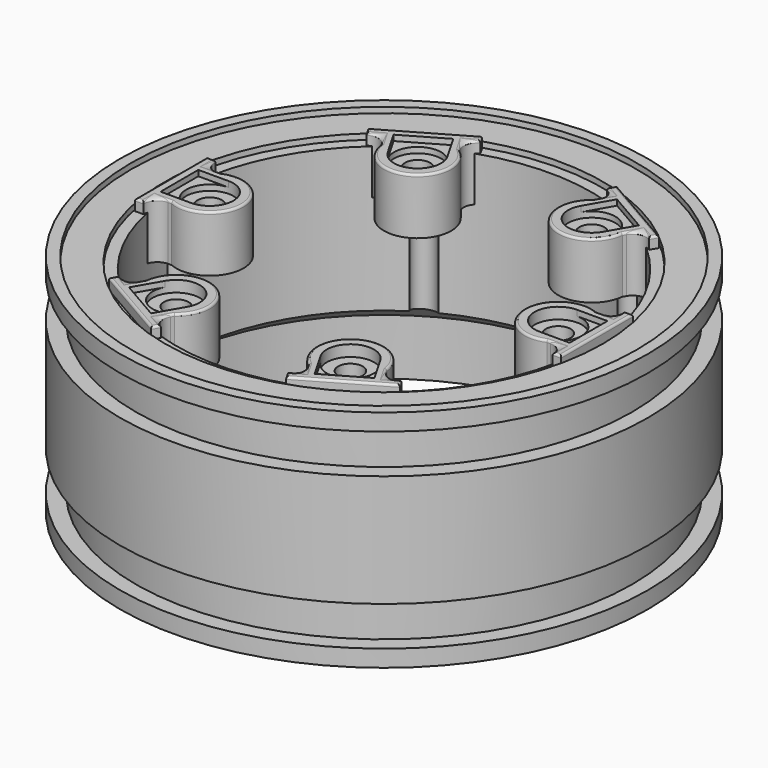
from build123d import *

# Parameters (mm, degrees)
CYLINDER073_R               = 1
CYLINDER073_DEPTH           = 10
CYLINDER073_PLACEMENT_ANGLE = 120
CYLINDER075_R               = 1
CYLINDER075_DEPTH           = 10
CYLINDER075_PLACEMENT_ANGLE = 240
CYLINDER072_R               = 1
CYLINDER072_DEPTH           = 10
CYLINDER072_PLACEMENT_ANGLE = 60
CYLINDER074_R               = 1
CYLINDER074_DEPTH           = 10
CYLINDER076_R               = 1
CYLINDER076_DEPTH           = 10
CYLINDER076_PLACEMENT_ANGLE = -60
CYLINDER071_R               = 1
CYLINDER071_DEPTH           = 10
CYLINDER070_R               = 20
CYLINDER070_DEPTH           = 5
CYLINDER007_R               = 19.5
CYLINDER007_DEPTH           = 1
CYLINDER018_R               = 22.5
CYLINDER018_DEPTH           = 0.5
CYLINDER006_R               = 18.5
CYLINDER006_DEPTH           = 20
CYLINDER002_R               = 22.1
CYLINDER002_DEPTH           = 17
CYLINDER001_R               = 23.5
CYLINDER001_DEPTH           = 17
CYLINDER_R                  = 23.5
CYLINDER_DEPTH              = 20
CYLINDER003_R               = 22
CYLINDER003_DEPTH           = 17
CYLINDER004_R               = 23.5
CYLINDER004_DEPTH           = 10
BOX011_W                    = 2.7
BOX011_H                    = 4.2
BOX011_DEPTH                = 0.5
CYLINDER069_R               = 2.1
CYLINDER069_DEPTH           = 1
CYLINDER068_R               = 1.1
CYLINDER068_DEPTH           = 5
BOX010_W                    = 0.75
BOX010_H                    = 8
BOX010_DEPTH                = 5
CYLINDER012_R               = 3
CYLINDER012_DEPTH           = 5
BOX_W                       = 2
BOX_H                       = 5.5
BOX_DEPTH                   = 5
FILLET049_R                 = 0.2
FILLET050_R                 = 1.2
FILLET050_PLACEMENT_ANGLE   = 120
FILLET057_R                 = 0.2
FILLET058_R                 = 1.2
FILLET051_R                 = 0.2
FILLET052_R                 = 1.2
FILLET052_PLACEMENT_ANGLE   = 180
FILLET055_R                 = 0.2
FILLET056_R                 = 1.2
FILLET056_PLACEMENT_ANGLE   = -60
FILLET053_R                 = 0.2
FILLET054_R                 = 1.2
FILLET054_PLACEMENT_ANGLE   = 240
FILLET047_R                 = 0.2
FILLET048_R                 = 1.2
FILLET048_PLACEMENT_ANGLE   = 60


with BuildPart() as cone:
    # Cone → Cone (revolve)
    with BuildSketch(Plane(origin=(0, 0, 5), x_dir=(1, 0, 0), z_dir=(0, -1, 0))):
        Polygon((0, 0), (20, 0), (12, 6), (0, 6), align=None)
    revolve(axis=Axis((0, 0, 5), (0, 0, 1)))


with BuildPart() as cylinder073:
    # Cylinder073 → Cylinder073 (new body)
    with BuildSketch(Plane.XY):
        Circle(CYLINDER073_R)
    extrude(amount=CYLINDER073_DEPTH)


with BuildPart() as cylinder073_1:
    # Cylinder073 placement: moved
    add(cylinder073.part.moved(Location((-9.25, 16.02147, 5))).rotate(Axis((-9.25, 16.02147, 5), (0, 0, 1)), CYLINDER073_PLACEMENT_ANGLE))


with BuildPart() as cylinder075:
    # Cylinder075 → Cylinder075 (new body)
    with BuildSketch(Plane.XY):
        Circle(CYLINDER075_R)
    extrude(amount=CYLINDER075_DEPTH)


with BuildPart() as cylinder075_1:
    # Cylinder075 placement: moved
    add(cylinder075.part.moved(Location((-9.25, -16.02147, 5))).rotate(Axis((-9.25, -16.02147, 5), (0, 0, 1)), CYLINDER075_PLACEMENT_ANGLE))


with BuildPart() as cylinder072:
    # Cylinder072 → Cylinder072 (new body)
    with BuildSketch(Plane.XY):
        Circle(CYLINDER072_R)
    extrude(amount=CYLINDER072_DEPTH)


with BuildPart() as cylinder072_1:
    # Cylinder072 placement: moved
    add(cylinder072.part.moved(Location((9.25, 16.02147, 5))).rotate(Axis((9.25, 16.02147, 5), (0, 0, 1)), CYLINDER072_PLACEMENT_ANGLE))


with BuildPart() as cylinder074:
    # Cylinder074 → Cylinder074 (new body)
    with BuildSketch(Plane(origin=(-18.5, 0, 5), x_dir=(-1, 0, 0), z_dir=(0, 0, 1))):
        Circle(CYLINDER074_R)
    extrude(amount=CYLINDER074_DEPTH)


with BuildPart() as cylinder076:
    # Cylinder076 → Cylinder076 (new body)
    with BuildSketch(Plane.XY):
        Circle(CYLINDER076_R)
    extrude(amount=CYLINDER076_DEPTH)


with BuildPart() as cylinder076_1:
    # Cylinder076 placement: moved
    add(cylinder076.part.moved(Location((9.25, -16.02147, 5))).rotate(Axis((9.25, -16.02147, 5), (0, 0, 1)), CYLINDER076_PLACEMENT_ANGLE))


with BuildPart() as fusion030:
    # Cylinder071 → Cylinder071 (new body)
    with BuildSketch(Plane(origin=(18.5, 0, 5), x_dir=(1, 0, 0), z_dir=(0, 0, 1))):
        Circle(CYLINDER071_R)
    extrude(amount=CYLINDER071_DEPTH)

    # Fusion030: union Cylinder073, Cylinder075, Cylinder072, Cylinder074, Cylinder076
    add(cylinder073_1.part)
    add(cylinder075_1.part)
    add(cylinder072_1.part)
    add(cylinder074.part)
    add(cylinder076_1.part)


with BuildPart() as cylinder070:
    # Cylinder070 → Cylinder070 (new body)
    with BuildSketch(Plane.XY):
        Circle(CYLINDER070_R)
    extrude(amount=CYLINDER070_DEPTH)


with BuildPart() as cylinder007:
    # Cylinder007 → Cylinder007 (new body)
    with BuildSketch(Plane.XY.offset(19)):
        Circle(CYLINDER007_R)
    extrude(amount=CYLINDER007_DEPTH)


with BuildPart() as cylinder018:
    # Cylinder018 → Cylinder018 (new body)
    with BuildSketch(Plane.XY.offset(19.5)):
        Circle(CYLINDER018_R)
    extrude(amount=CYLINDER018_DEPTH)


with BuildPart() as cylinder006:
    # Cylinder006 → Cylinder006 (new body)
    with BuildSketch(Plane.XY):
        Circle(CYLINDER006_R)
    extrude(amount=CYLINDER006_DEPTH)


with BuildPart() as cylinder002:
    # Cylinder002 → Cylinder002 (new body)
    with BuildSketch(Plane.XY):
        Circle(CYLINDER002_R)
    extrude(amount=CYLINDER002_DEPTH)


with BuildPart() as cut:
    # Cylinder001 → Cylinder001 (new body)
    with BuildSketch(Plane.XY):
        Circle(CYLINDER001_R)
    extrude(amount=CYLINDER001_DEPTH)

    # Cut: cut Cylinder002
    add(cylinder002.part, mode=Mode.SUBTRACT)


with BuildPart() as cut_1:
    # Cut placement: moved
    add(cut.part.moved(Location((0, 0, 1.5))))


with BuildPart() as cut001:
    # Cylinder → Cylinder (new body)
    with BuildSketch(Plane.XY):
        Circle(CYLINDER_R)
    extrude(amount=CYLINDER_DEPTH)

    # Cut001: cut Cut
    add(cut_1.part, mode=Mode.SUBTRACT)


with BuildPart() as cylinder003:
    # Cylinder003 → Cylinder003 (new body)
    with BuildSketch(Plane.XY):
        Circle(CYLINDER003_R)
    extrude(amount=CYLINDER003_DEPTH)


with BuildPart() as fusion036:
    # Cylinder004 → Cylinder004 (new body)
    with BuildSketch(Plane.XY.offset(0.5)):
        Circle(CYLINDER004_R)
    extrude(amount=CYLINDER004_DEPTH)

    # Cut002: cut Cylinder003
    add(cylinder003.part, mode=Mode.SUBTRACT)


with BuildPart() as fusion036_1:
    # Cut002 placement: moved
    add(fusion036.part.moved(Location((0, 0, 4.5))))

    # Fusion: union Cut001
    add(cut001.part)

    # Cut031: cut Cylinder006
    add(cylinder006.part, mode=Mode.SUBTRACT)

    # Cut032: cut Cylinder018
    add(cylinder018.part, mode=Mode.SUBTRACT)

    # Cut033: cut Cylinder007
    add(cylinder007.part, mode=Mode.SUBTRACT)

    # Cut034: cut Cylinder070
    add(cylinder070.part, mode=Mode.SUBTRACT)

    # Fusion036: union Fusion030
    add(fusion030.part)


with BuildPart() as cube011:
    # Box011 → Box011 (new body)
    with BuildSketch(Plane(origin=(15.5, -2.1, 19.5), x_dir=(1, 0, 0), z_dir=(0, 0, 1))):
        with Locations((1.35, 2.1)):
            Rectangle(BOX011_W, BOX011_H)
    extrude(amount=BOX011_DEPTH)


with BuildPart() as cylinder069:
    # Cylinder069 → Cylinder069 (new body)
    with BuildSketch(Plane(origin=(15.5, 0, 19), x_dir=(1, 0, 0), z_dir=(0, 0, 1))):
        Circle(CYLINDER069_R)
    extrude(amount=CYLINDER069_DEPTH)


with BuildPart() as fusion025:
    # Cylinder068 → Cylinder068 (new body)
    with BuildSketch(Plane(origin=(15.5, 0, 15), x_dir=(1, 0, 0), z_dir=(0, 0, 1))):
        Circle(CYLINDER068_R)
    extrude(amount=CYLINDER068_DEPTH)

    # Fusion025: union Cylinder069
    add(cylinder069.part)


with BuildPart() as cube010:
    # Box010 → Box010 (new body)
    with BuildSketch(Plane(origin=(18.2, -4, 15), x_dir=(1, 0, 0), z_dir=(0, 0, 1))):
        with Locations((0.375, 4)):
            Rectangle(BOX010_W, BOX010_H)
    extrude(amount=BOX010_DEPTH)


with BuildPart() as cylinder012:
    # Cylinder012 → Cylinder012 (new body)
    with BuildSketch(Plane(origin=(15.5, 0, 15), x_dir=(1, 0, 0), z_dir=(0, 0, 1))):
        Circle(CYLINDER012_R)
    extrude(amount=CYLINDER012_DEPTH)


with BuildPart() as cut030:
    # Box → Box (new body)
    with BuildSketch(Plane(origin=(16.5, -2.75, 15), x_dir=(1, 0, 0), z_dir=(0, 0, 1))):
        with Locations((1, 2.75)):
            Rectangle(BOX_W, BOX_H)
    extrude(amount=BOX_DEPTH)

    # Fusion024: union Cube010, Cylinder012
    add(cube010.part)
    add(cylinder012.part)

    # Cut029: cut Fusion025
    add(fusion025.part, mode=Mode.SUBTRACT)

    # Cut030: cut Cube011
    add(cube011.part, mode=Mode.SUBTRACT)


with BuildPart() as fillet050:
    # Fillet049 base: copy of Cut030
    add(cut030.part)

    # Fillet049
    fillet049_edges = [fillet050.edges().sort_by_distance(p)[0] for p in [
        (18.2, -3.375, 20),
        (18.575, -4, 20),
        (17.449479, -2.75, 20),
        (18.95, 0, 20),
        (12.5, 0, 20),
        (18.575, 4, 20),
        (17.449479, 2.75, 20),
        (18.2, 3.375, 20),
    ]]
    fillet(fillet049_edges, radius=FILLET049_R)

    # Fillet050
    fillet050_edges = [fillet050.edges().sort_by_distance(p)[0] for p in [
        (18.2, -2.75, 17.4),
        (18.2, 2.75, 17.4),
    ]]
    fillet(fillet050_edges, radius=FILLET050_R)


with BuildPart() as fillet050_1:
    # Fillet050 placement: moved
    add(fillet050.part.rotate(Axis((0, 0, 0), (0, 0, 1)), FILLET050_PLACEMENT_ANGLE))


with BuildPart() as fillet058:
    # Fillet057 base: copy of Cut030
    add(cut030.part)

    # Fillet057
    fillet057_edges = [fillet058.edges().sort_by_distance(p)[0] for p in [
        (18.2, -3.375, 20),
        (18.575, -4, 20),
        (17.449479, -2.75, 20),
        (18.95, 0, 20),
        (12.5, 0, 20),
        (18.575, 4, 20),
        (17.449479, 2.75, 20),
        (18.2, 3.375, 20),
    ]]
    fillet(fillet057_edges, radius=FILLET057_R)

    # Fillet058
    fillet058_edges = [fillet058.edges().sort_by_distance(p)[0] for p in [
        (18.2, -2.75, 17.4),
        (18.2, 2.75, 17.4),
    ]]
    fillet(fillet058_edges, radius=FILLET058_R)


with BuildPart() as fillet052:
    # Fillet051 base: copy of Cut030
    add(cut030.part)

    # Fillet051
    fillet051_edges = [fillet052.edges().sort_by_distance(p)[0] for p in [
        (18.2, -3.375, 20),
        (18.575, -4, 20),
        (17.449479, -2.75, 20),
        (18.95, 0, 20),
        (12.5, 0, 20),
        (18.575, 4, 20),
        (17.449479, 2.75, 20),
        (18.2, 3.375, 20),
    ]]
    fillet(fillet051_edges, radius=FILLET051_R)

    # Fillet052
    fillet052_edges = [fillet052.edges().sort_by_distance(p)[0] for p in [
        (18.2, -2.75, 17.4),
        (18.2, 2.75, 17.4),
    ]]
    fillet(fillet052_edges, radius=FILLET052_R)


with BuildPart() as fillet052_1:
    # Fillet052 placement: moved
    add(fillet052.part.rotate(Axis((0, 0, 0), (0, 0, 1)), FILLET052_PLACEMENT_ANGLE))


with BuildPart() as fillet056:
    # Fillet055 base: copy of Cut030
    add(cut030.part)

    # Fillet055
    fillet055_edges = [fillet056.edges().sort_by_distance(p)[0] for p in [
        (18.2, -3.375, 20),
        (18.575, -4, 20),
        (17.449479, -2.75, 20),
        (18.95, 0, 20),
        (12.5, 0, 20),
        (18.575, 4, 20),
        (17.449479, 2.75, 20),
        (18.2, 3.375, 20),
    ]]
    fillet(fillet055_edges, radius=FILLET055_R)

    # Fillet056
    fillet056_edges = [fillet056.edges().sort_by_distance(p)[0] for p in [
        (18.2, -2.75, 17.4),
        (18.2, 2.75, 17.4),
    ]]
    fillet(fillet056_edges, radius=FILLET056_R)


with BuildPart() as fillet056_1:
    # Fillet056 placement: moved
    add(fillet056.part.rotate(Axis((0, 0, 0), (0, 0, 1)), FILLET056_PLACEMENT_ANGLE))


with BuildPart() as fillet054:
    # Fillet053 base: copy of Cut030
    add(cut030.part)

    # Fillet053
    fillet053_edges = [fillet054.edges().sort_by_distance(p)[0] for p in [
        (18.2, -3.375, 20),
        (18.575, -4, 20),
        (17.449479, -2.75, 20),
        (18.95, 0, 20),
        (12.5, 0, 20),
        (18.575, 4, 20),
        (17.449479, 2.75, 20),
        (18.2, 3.375, 20),
    ]]
    fillet(fillet053_edges, radius=FILLET053_R)

    # Fillet054
    fillet054_edges = [fillet054.edges().sort_by_distance(p)[0] for p in [
        (18.2, -2.75, 17.4),
        (18.2, 2.75, 17.4),
    ]]
    fillet(fillet054_edges, radius=FILLET054_R)


with BuildPart() as fillet054_1:
    # Fillet054 placement: moved
    add(fillet054.part.rotate(Axis((0, 0, 0), (0, 0, 1)), FILLET054_PLACEMENT_ANGLE))


with BuildPart() as rim_front:
    # Fillet047 base: copy of Cut030
    add(cut030.part)

    # Fillet047
    fillet047_edges = [rim_front.edges().sort_by_distance(p)[0] for p in [
        (18.2, -3.375, 20),
        (18.575, -4, 20),
        (17.449479, -2.75, 20),
        (18.95, 0, 20),
        (12.5, 0, 20),
        (18.575, 4, 20),
        (17.449479, 2.75, 20),
        (18.2, 3.375, 20),
    ]]
    fillet(fillet047_edges, radius=FILLET047_R)

    # Fillet048
    fillet048_edges = [rim_front.edges().sort_by_distance(p)[0] for p in [
        (18.2, -2.75, 17.4),
        (18.2, 2.75, 17.4),
    ]]
    fillet(fillet048_edges, radius=FILLET048_R)


with BuildPart() as rim_front_1:
    # Fillet048 placement: moved
    add(rim_front.part.rotate(Axis((0, 0, 0), (0, 0, 1)), FILLET048_PLACEMENT_ANGLE))

    # Fusion026: union Fillet050, Fillet058, Fillet052, Fillet056, Fillet054
    add(fillet050_1.part)
    add(fillet058.part)
    add(fillet052_1.part)
    add(fillet056_1.part)
    add(fillet054_1.part)

    # Fusion037: union Fusion036
    add(fusion036_1.part)

    # Cut057: cut Cone
    add(cone.part, mode=Mode.SUBTRACT)


solid = rim_front_1.part
